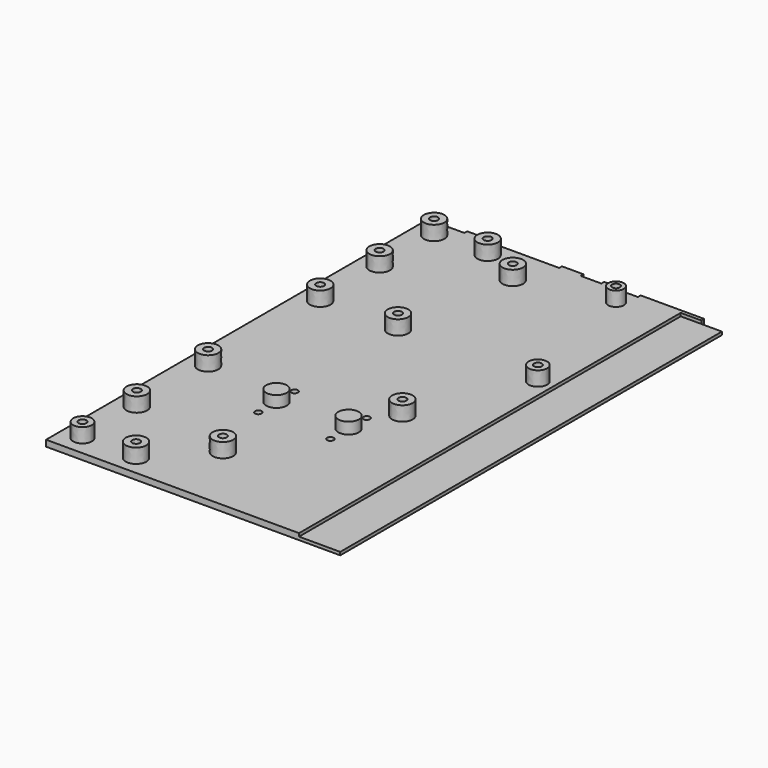
from build123d import *

# Parameters (mm, degrees)
SKETCH_W        = 132.8
SKETCH_H        = 231.6
PAD_DEPTH       = 3
SKETCH001_W     = 231.6
SKETCH001_H     = 1.5
PAD001_DEPTH    = 10
SKETCH002_W     = 231.6
SKETCH002_H     = 1.5
POCKET_DEPTH    = 10
SKETCH005_R     = 1.6
HOLE_DEPTH      = 3.001
SKETCH006_R     = 5
PAD003_DEPTH    = 5.5
SKETCH007_R     = 1.9
POCKET002_DEPTH = 7.6
SKETCH008_W     = 10.5
SKETCH008_H     = 3
SKETCH008_W_2   = 30.8
PAD004_DEPTH    = 1.7
PAD005_DEPTH    = 7
POCKET003_DEPTH = 5.6


with BuildPart() as part:
    # Sketch → Pad (new body)
    with BuildSketch(Plane.XY.offset(18)):
        with Locations((-66.4, 0)):
            Rectangle(SKETCH_W, SKETCH_H)
    extrude(amount=PAD_DEPTH)

    # Sketch001 (on Face2 of Pad) → Pad001 (join)
    with BuildSketch(Plane(origin=(0, 0, 18), x_dir=(0, 1, 0), z_dir=(1, 0, 0))):
        with Locations((0, 0.75)):
            Rectangle(SKETCH001_W, SKETCH001_H)
    extrude(amount=PAD001_DEPTH)

    # Sketch002 (on Face4 of Pad001) → Pocket (cut)
    with BuildSketch(Plane(origin=(0, 0, 18), x_dir=(0, 1, 0), z_dir=(1, 0, 0))):
        with Locations((0, 2.25)):
            Rectangle(SKETCH002_W, SKETCH002_H)
    extrude(amount=-POCKET_DEPTH, mode=Mode.SUBTRACT)

    # Sketch005 → Hole (cut, through all)
    with BuildSketch(Plane.XY.offset(21)):
        with Locations((-84, -26)):
            Circle(SKETCH005_R)
        with Locations((-49, -26)):
            Circle(SKETCH005_R)
        with Locations((-84, -48)):
            Circle(SKETCH005_R)
        with Locations((-49, -48)):
            Circle(SKETCH005_R)
    extrude(amount=-HOLE_DEPTH, mode=Mode.SUBTRACT)

    # Sketch006 (on Face6 of Hole) → Pad003 (join)
    with BuildSketch(Plane.XY.offset(21)):
        with Locations((-84, -37)):
            Circle(SKETCH006_R)
        with Locations((-49, -37)):
            Circle(SKETCH006_R)
    extrude(amount=PAD003_DEPTH)

    # Sketch007 (on Face2 of Pad003) → Pocket002 (cut)
    with BuildSketch(Plane(origin=(0, 0, 18), x_dir=(1, 0, 0), z_dir=(0, 0, -1))):
        with Locations((-84, 37)):
            Circle(SKETCH007_R)
        with Locations((-49, 37)):
            Circle(SKETCH007_R)
    extrude(amount=-POCKET002_DEPTH, mode=Mode.SUBTRACT)

    # Sketch008 (on Face1 of Pocket002) → Pad004 (join)
    with BuildSketch(Plane(origin=(0, 115.8, 18), x_dir=(-1, 0, 0), z_dir=(0, 1, 0))):
        with Locations((109.75, 1.5)):
            Rectangle(SKETCH008_W, SKETCH008_H)
        with Locations((63.78, 1.5)):
            Rectangle(SKETCH008_W, SKETCH008_H)
        with Locations((43.28, 1.5)):
            Rectangle(SKETCH008_W, SKETCH008_H)
        with Locations((15.4, 1.5)):
            Rectangle(SKETCH008_W_2, SKETCH008_H)
    extrude(amount=PAD004_DEPTH)

    # Sketch009 (on Face4 of Pad004) → Pad005 (join)
    with BuildSketch(Plane.XY.offset(21)):
        with BuildLine():
            add(Edge.make_bspline(
                [(-12.694009, 38.109462), (-12.694009, 45.903675), (-19.443996, 42.006569), (-26.193982, 38.109462), (-19.443996, 34.212356), (-12.694009, 30.315249), (-12.694009, 38.109462)],
                knots=[0, 0, 0, 2.094395, 2.094395, 4.18879, 4.18879, 6.283185, 6.283185, 6.283185], degree=2, weights=[1, 0.5, 1, 0.5, 1, 0.5, 1]))
        make_face()
        with BuildLine():
            add(Edge.make_bspline(
                [(-30.73789, 107.197462), (-30.73789, 113.779242), (-36.437878, 110.488352), (-42.137867, 107.197462), (-36.437878, 103.906572), (-30.73789, 100.615682), (-30.73789, 107.197462)],
                knots=[0, 0, 0, 2.094395, 2.094395, 4.18879, 4.18879, 6.283185, 6.283185, 6.283185], degree=2, weights=[1, 0.5, 1, 0.5, 1, 0.5, 1]))
        make_face()
        with BuildLine():
            add(Edge.make_bspline(
                [(-80.083892, 38.109462), (-80.083892, 46.769699), (-87.583877, 42.439581), (-95.083862, 38.109462), (-87.583877, 33.779344), (-80.083892, 29.449226), (-80.083892, 38.109462)],
                knots=[0, 0, 0, 2.094395, 2.094395, 4.18879, 4.18879, 6.283185, 6.283185, 6.283185], degree=2, weights=[1, 0.5, 1, 0.5, 1, 0.5, 1]))
        make_face()
        with BuildLine():
            add(Edge.make_bspline(
                [(-71.511392, 97.037462), (-71.511392, 105.697699), (-79.011377, 101.367581), (-86.511362, 97.037462), (-79.011377, 92.707344), (-71.511392, 88.377226), (-71.511392, 97.037462)],
                knots=[0, 0, 0, 2.094395, 2.094395, 4.18879, 4.18879, 6.283185, 6.283185, 6.283185], degree=2, weights=[1, 0.5, 1, 0.5, 1, 0.5, 1]))
        make_face()
        with BuildLine():
            add(Edge.make_bspline(
                [(-34.681392, -15.992538), (-34.681392, -7.332301), (-42.181377, -11.662419), (-49.681362, -15.992538), (-42.181377, -20.322656), (-34.681392, -24.652774), (-34.681392, -15.992538)],
                knots=[0, 0, 0, 2.094395, 2.094395, 4.18879, 4.18879, 6.283185, 6.283185, 6.283185], degree=2, weights=[1, 0.5, 1, 0.5, 1, 0.5, 1]))
        make_face()
        with BuildLine():
            add(Edge.make_bspline(
                [(-68.971392, -82.032538), (-68.971392, -73.372301), (-76.471377, -77.702419), (-83.971362, -82.032538), (-76.471377, -86.362656), (-68.971392, -90.692774), (-68.971392, -82.032538)],
                knots=[0, 0, 0, 2.094395, 2.094395, 4.18879, 4.18879, 6.283185, 6.283185, 6.283185], degree=2, weights=[1, 0.5, 1, 0.5, 1, 0.5, 1]))
        make_face()
        with BuildLine():
            add(Edge.make_bspline(
                [(-91.831392, 107.197462), (-91.831392, 115.857699), (-99.331377, 111.527581), (-106.831362, 107.197462), (-99.331377, 102.867344), (-91.831392, 98.537226), (-91.831392, 107.197462)],
                knots=[0, 0, 0, 2.094395, 2.094395, 4.18879, 4.18879, 6.283185, 6.283185, 6.283185], degree=2, weights=[1, 0.5, 1, 0.5, 1, 0.5, 1]))
        make_face()
        with BuildLine():
            add(Edge.make_bspline(
                [(-91.831392, -106.162538), (-91.831392, -97.502301), (-99.331377, -101.832419), (-106.831362, -106.162538), (-99.331377, -110.492656), (-91.831392, -114.822774), (-91.831392, -106.162538)],
                knots=[0, 0, 0, 2.094395, 2.094395, 4.18879, 4.18879, 6.283185, 6.283185, 6.283185], degree=2, weights=[1, 0.5, 1, 0.5, 1, 0.5, 1]))
        make_face()
        with BuildLine():
            add(Edge.make_bspline(
                [(-117.866392, -73.142538), (-117.866392, -64.482301), (-125.366377, -68.812419), (-132.866362, -73.142538), (-125.366377, -77.472656), (-117.866392, -81.802774), (-117.866392, -73.142538)],
                knots=[0, 0, 0, 2.094395, 2.094395, 4.18879, 4.18879, 6.283185, 6.283185, 6.283185], degree=2, weights=[1, 0.5, 1, 0.5, 1, 0.5, 1]))
        make_face()
        with BuildLine():
            add(Edge.make_bspline(
                [(-117.866392, 74.177462), (-117.866392, 82.837699), (-125.366377, 78.507581), (-132.866362, 74.177462), (-125.366377, 69.847344), (-117.866392, 65.517226), (-117.866392, 74.177462)],
                knots=[0, 0, 0, 2.094395, 2.094395, 4.18879, 4.18879, 6.283185, 6.283185, 6.283185], degree=2, weights=[1, 0.5, 1, 0.5, 1, 0.5, 1]))
        make_face()
        with BuildLine():
            add(Edge.make_bspline(
                [(-118.366391, -106.119104), (-118.366391, -98.324891), (-125.116378, -102.221997), (-131.866364, -106.119104), (-125.116378, -110.01621), (-118.366391, -113.913317), (-118.366391, -106.119104)],
                knots=[0, 0, 0, 2.094395, 2.094395, 4.18879, 4.18879, 6.283185, 6.283185, 6.283185], degree=2, weights=[1, 0.5, 1, 0.5, 1, 0.5, 1]))
        make_face()
        with BuildLine():
            add(Edge.make_bspline(
                [(-117.866392, -29.919104), (-117.866392, -21.258867), (-125.366377, -25.588985), (-132.866362, -29.919104), (-125.366377, -34.249222), (-117.866392, -38.57934), (-117.866392, -29.919104)],
                knots=[0, 0, 0, 2.094395, 2.094395, 4.18879, 4.18879, 6.283185, 6.283185, 6.283185], degree=2, weights=[1, 0.5, 1, 0.5, 1, 0.5, 1]))
        make_face()
        with BuildLine():
            add(Edge.make_bspline(
                [(-117.866392, 38.109462), (-117.866392, 46.769699), (-125.366377, 42.439581), (-132.866362, 38.109462), (-125.366377, 33.779344), (-117.866392, 29.449226), (-117.866392, 38.109462)],
                knots=[0, 0, 0, 2.094395, 2.094395, 4.18879, 4.18879, 6.283185, 6.283185, 6.283185], degree=2, weights=[1, 0.5, 1, 0.5, 1, 0.5, 1]))
        make_face()
        with BuildLine():
            add(Edge.make_bspline(
                [(-117.866392, 107.240896), (-117.866392, 115.901133), (-125.366377, 111.571015), (-132.866362, 107.240896), (-125.366377, 102.910778), (-117.866392, 98.58066), (-117.866392, 107.240896)],
                knots=[0, 0, 0, 2.094395, 2.094395, 4.18879, 4.18879, 6.283185, 6.283185, 6.283185], degree=2, weights=[1, 0.5, 1, 0.5, 1, 0.5, 1]))
        make_face()
    extrude(amount=PAD005_DEPTH)

    # Sketch010 (on Face75 of Pad005) → Pocket003 (cut)
    with BuildSketch(Plane.XY.offset(28)):
        with BuildLine():
            add(Edge.make_bspline(
                [(-15.294002, 38.109462), (-15.294002, 41.400357), (-18.144, 39.75491), (-20.993998, 38.109462), (-18.144, 36.464015), (-15.294002, 34.818568), (-15.294002, 38.109462)],
                knots=[0, 0, 0, 2.094395, 2.094395, 4.18879, 4.18879, 6.283185, 6.283185, 6.283185], degree=2, weights=[1, 0.5, 1, 0.5, 1, 0.5, 1]))
        make_face()
        with BuildLine():
            add(Edge.make_bspline(
                [(-32.637884, 107.197462), (-32.637884, 110.488357), (-35.487882, 108.84291), (-38.33788, 107.197462), (-35.487882, 105.552015), (-32.637884, 103.906568), (-32.637884, 107.197462)],
                knots=[0, 0, 0, 2.094395, 2.094395, 4.18879, 4.18879, 6.283185, 6.283185, 6.283185], degree=2, weights=[1, 0.5, 1, 0.5, 1, 0.5, 1]))
        make_face()
        with BuildLine():
            add(Edge.make_bspline(
                [(-74.611384, 97.032382), (-74.611384, 100.323277), (-77.461382, 98.67783), (-80.31138, 97.032382), (-77.461382, 95.386935), (-74.611384, 93.741488), (-74.611384, 97.032382)],
                knots=[0, 0, 0, 2.094395, 2.094395, 4.18879, 4.18879, 6.283185, 6.283185, 6.283185], degree=2, weights=[1, 0.5, 1, 0.5, 1, 0.5, 1]))
        make_face()
        with BuildLine():
            add(Edge.make_bspline(
                [(-83.183884, 38.109462), (-83.183884, 41.400357), (-86.033882, 39.75491), (-88.88388, 38.109462), (-86.033882, 36.464015), (-83.183884, 34.818568), (-83.183884, 38.109462)],
                knots=[0, 0, 0, 2.094395, 2.094395, 4.18879, 4.18879, 6.283185, 6.283185, 6.283185], degree=2, weights=[1, 0.5, 1, 0.5, 1, 0.5, 1]))
        make_face()
        with BuildLine():
            add(Edge.make_bspline(
                [(-37.781384, -15.997618), (-37.781384, -12.706723), (-40.631382, -14.35217), (-43.48138, -15.997618), (-40.631382, -17.643065), (-37.781384, -19.288512), (-37.781384, -15.997618)],
                knots=[0, 0, 0, 2.094395, 2.094395, 4.18879, 4.18879, 6.283185, 6.283185, 6.283185], degree=2, weights=[1, 0.5, 1, 0.5, 1, 0.5, 1]))
        make_face()
        with BuildLine():
            add(Edge.make_bspline(
                [(-72.071384, -82.032538), (-72.071384, -78.741643), (-74.921382, -80.38709), (-77.77138, -82.032538), (-74.921382, -83.677985), (-72.071384, -85.323432), (-72.071384, -82.032538)],
                knots=[0, 0, 0, 2.094395, 2.094395, 4.18879, 4.18879, 6.283185, 6.283185, 6.283185], degree=2, weights=[1, 0.5, 1, 0.5, 1, 0.5, 1]))
        make_face()
        with BuildLine():
            add(Edge.make_bspline(
                [(-94.931384, 107.197462), (-94.931384, 110.488357), (-97.781382, 108.84291), (-100.63138, 107.197462), (-97.781382, 105.552015), (-94.931384, 103.906568), (-94.931384, 107.197462)],
                knots=[0, 0, 0, 2.094395, 2.094395, 4.18879, 4.18879, 6.283185, 6.283185, 6.283185], degree=2, weights=[1, 0.5, 1, 0.5, 1, 0.5, 1]))
        make_face()
        with BuildLine():
            add(Edge.make_bspline(
                [(-94.931384, -106.162538), (-94.931384, -102.871643), (-97.781382, -104.51709), (-100.63138, -106.162538), (-97.781382, -107.807985), (-94.931384, -109.453432), (-94.931384, -106.162538)],
                knots=[0, 0, 0, 2.094395, 2.094395, 4.18879, 4.18879, 6.283185, 6.283185, 6.283185], degree=2, weights=[1, 0.5, 1, 0.5, 1, 0.5, 1]))
        make_face()
        with BuildLine():
            add(Edge.make_bspline(
                [(-120.966384, -73.142538), (-120.966384, -69.851643), (-123.816382, -71.49709), (-126.66638, -73.142538), (-123.816382, -74.787985), (-120.966384, -76.433432), (-120.966384, -73.142538)],
                knots=[0, 0, 0, 2.094395, 2.094395, 4.18879, 4.18879, 6.283185, 6.283185, 6.283185], degree=2, weights=[1, 0.5, 1, 0.5, 1, 0.5, 1]))
        make_face()
        with BuildLine():
            add(Edge.make_bspline(
                [(-120.966384, 74.177462), (-120.966384, 77.468357), (-123.816382, 75.82291), (-126.66638, 74.177462), (-123.816382, 72.532015), (-120.966384, 70.886568), (-120.966384, 74.177462)],
                knots=[0, 0, 0, 2.094395, 2.094395, 4.18879, 4.18879, 6.283185, 6.283185, 6.283185], degree=2, weights=[1, 0.5, 1, 0.5, 1, 0.5, 1]))
        make_face()
        with BuildLine():
            add(Edge.make_bspline(
                [(-120.966384, -29.919104), (-120.966384, -26.628209), (-123.816382, -28.273656), (-126.66638, -29.919104), (-123.816382, -31.564551), (-120.966384, -33.209998), (-120.966384, -29.919104)],
                knots=[0, 0, 0, 2.094395, 2.094395, 4.18879, 4.18879, 6.283185, 6.283185, 6.283185], degree=2, weights=[1, 0.5, 1, 0.5, 1, 0.5, 1]))
        make_face()
        with BuildLine():
            add(Edge.make_bspline(
                [(-120.966384, 38.109462), (-120.966384, 41.400357), (-123.816382, 39.75491), (-126.66638, 38.109462), (-123.816382, 36.464015), (-120.966384, 34.818568), (-120.966384, 38.109462)],
                knots=[0, 0, 0, 2.094395, 2.094395, 4.18879, 4.18879, 6.283185, 6.283185, 6.283185], degree=2, weights=[1, 0.5, 1, 0.5, 1, 0.5, 1]))
        make_face()
        with BuildLine():
            add(Edge.make_bspline(
                [(-120.966384, 107.240896), (-120.966384, 110.531791), (-123.816382, 108.886344), (-126.66638, 107.240896), (-123.816382, 105.595449), (-120.966384, 103.950002), (-120.966384, 107.240896)],
                knots=[0, 0, 0, 2.094395, 2.094395, 4.18879, 4.18879, 6.283185, 6.283185, 6.283185], degree=2, weights=[1, 0.5, 1, 0.5, 1, 0.5, 1]))
        make_face()
        with BuildLine():
            add(Edge.make_bspline(
                [(-120.966384, -106.162538), (-120.966384, -102.871643), (-123.816382, -104.51709), (-126.66638, -106.162538), (-123.816382, -107.807985), (-120.966384, -109.453432), (-120.966384, -106.162538)],
                knots=[0, 0, 0, 2.094395, 2.094395, 4.18879, 4.18879, 6.283185, 6.283185, 6.283185], degree=2, weights=[1, 0.5, 1, 0.5, 1, 0.5, 1]))
        make_face()
    extrude(amount=-POCKET003_DEPTH, mode=Mode.SUBTRACT)


solid = part.part
